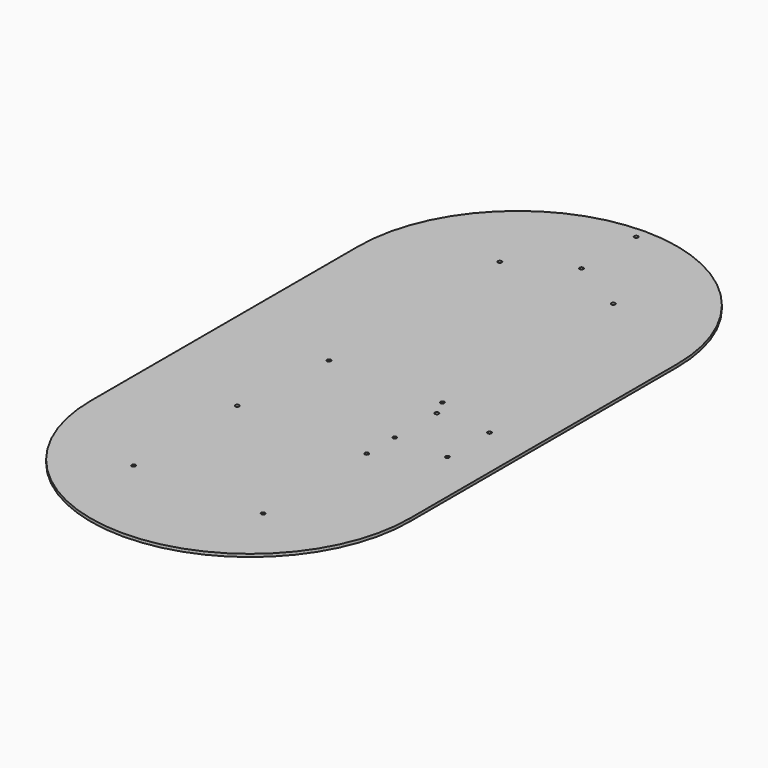
from build123d import *

# Parameters (mm, degrees)
F0_R     = 2.15265
F1_DEPTH = 3.175


with BuildPart() as f1:
    # F0 (on Top) → F1 (new body)
    with BuildSketch(Plane.XY):
        with BuildLine():
            ThreePointArc((355.6, 0), (177.8, 177.8), (0, 0))
            Line((0, 0), (0, -373.085176))
            ThreePointArc((0, -373.085176), (177.8, -550.885176), (355.6, -373.085176))
            Line((355.6, -373.085176), (355.6, 0))
        make_face()
        with Locations((105.56875, -445.316426)):
            Circle(F0_R, mode=Mode.SUBTRACT)
        with Locations((105.56875, -300.853926)):
            Circle(F0_R, mode=Mode.SUBTRACT)
        with Locations((250.03125, -445.316426)):
            Circle(F0_R, mode=Mode.SUBTRACT)
        with Locations((250.03125, -300.853926)):
            Circle(F0_R, mode=Mode.SUBTRACT)
        with Locations((250.03125, -261.9375)):
            Circle(F0_R, mode=Mode.SUBTRACT)
        with Locations((250.03125, -203.2)):
            Circle(F0_R, mode=Mode.SUBTRACT)
        with Locations((308.76875, -261.9375)):
            Circle(F0_R, mode=Mode.SUBTRACT)
        with Locations((308.76875, -203.2)):
            Circle(F0_R, mode=Mode.SUBTRACT)
        with Locations((114.497731, -184.255246)):
            Circle(F0_R, mode=Mode.SUBTRACT)
        with Locations((114.497731, 54.080246)):
            Circle(F0_R, mode=Mode.SUBTRACT)
        with Locations((241.102269, -184.255246)):
            Circle(F0_R, mode=Mode.SUBTRACT)
        with Locations((241.102269, 54.080246)):
            Circle(F0_R, mode=Mode.SUBTRACT)
        with Locations((177.8, 88.9)):
            Circle(F0_R, mode=Mode.SUBTRACT)
        with Locations((177.8, 165.1)):
            Circle(F0_R, mode=Mode.SUBTRACT)
    extrude(amount=F1_DEPTH)


solid = f1.part
